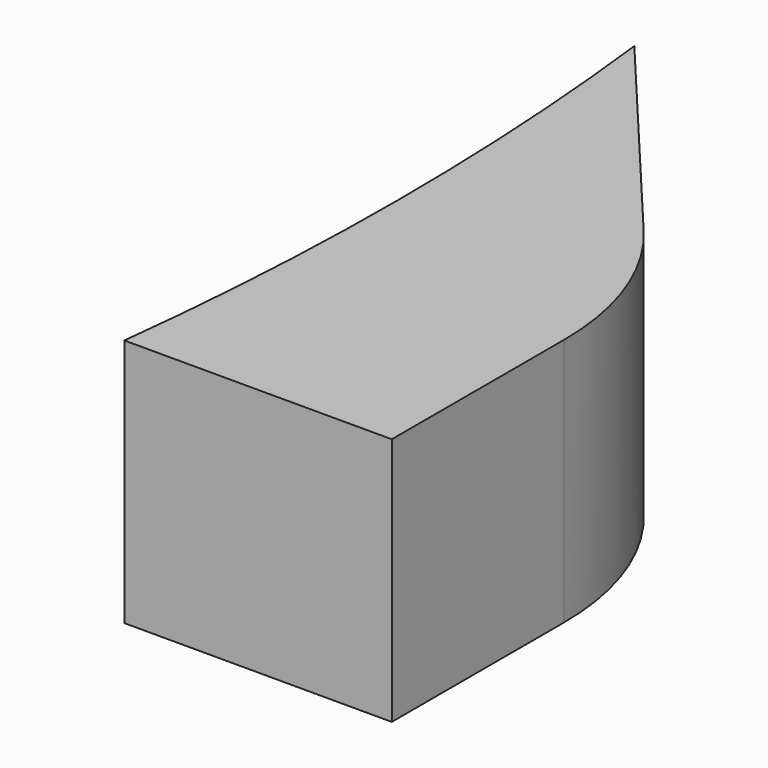
from build123d import *

# Parameters (mm, degrees)
F1_DEPTH = 12.7
F2_R     = 14.474482


with BuildPart() as f1:
    # F0 (on Top) → F1 (new body)
    with BuildSketch(Plane.XY):
        with BuildLine():
            ThreePointArc((-0.950427, 16.267946), (-0.237809, 8.147843), (0, 0))
            ThreePointArc((0, 0), (-0.237809, -8.147843), (-0.950427, -16.267946))
            Line((-0.950427, -16.267946), (12.7, -16.267946))
            Line((12.7, -16.267946), (12.7, 0))
            Line((12.7, 0), (-0.950427, 16.267946))
        make_face()
    extrude(amount=F1_DEPTH)

    # F2
    f2_edges = [f1.edges().sort_by_distance(p)[0] for p in [
        (12.7, 0, 6.35),
    ]]
    fillet(f2_edges, radius=F2_R)


solid = f1.part
